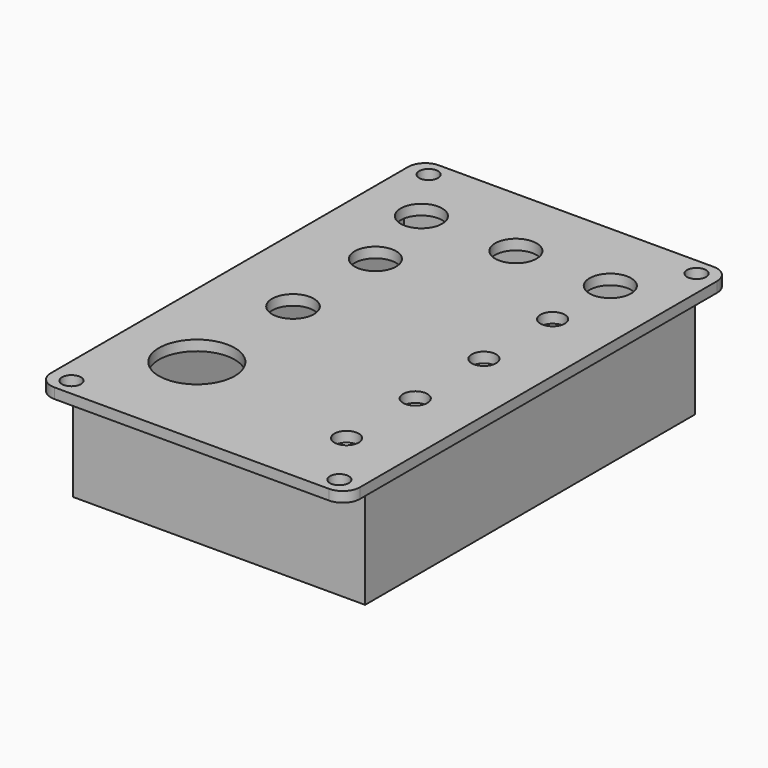
from build123d import *

# Parameters (mm, degrees)
SKETCH031_W   = 90
SKETCH031_H   = 140
SKETCH031_R   = 11.05
SKETCH031_R_2 = 2.75
SKETCH031_R_3 = 6.1
SKETCH031_R_4 = 6.05
SKETCH031_R_5 = 3.55
PAD014_DEPTH  = 3
SKETCH032_W   = 85
SKETCH032_H   = 120
SKETCH032_W_2 = 82
SKETCH032_H_2 = 117
PAD015_DEPTH  = 30
FILLET014_R   = 5


with BuildPart() as part:
    # Sketch031 → Pad014 (new body)
    with BuildSketch(Plane.XY):
        Rectangle(SKETCH031_W, SKETCH031_H)
        with Locations((-22.5, -40)):
            Circle(SKETCH031_R, mode=Mode.SUBTRACT)
        with Locations((-39, 65)):
            Circle(SKETCH031_R_2, mode=Mode.SUBTRACT)
        with Locations((39, 65)):
            Circle(SKETCH031_R_2, mode=Mode.SUBTRACT)
        with Locations((39, -65)):
            Circle(SKETCH031_R_2, mode=Mode.SUBTRACT)
        with Locations((-39, -65)):
            Circle(SKETCH031_R_2, mode=Mode.SUBTRACT)
        with Locations((-22.5, -5)):
            Circle(SKETCH031_R_3, mode=Mode.SUBTRACT)
        with Locations((-27.5, 48)):
            Circle(SKETCH031_R_4, mode=Mode.SUBTRACT)
        with Locations((0, 48)):
            Circle(SKETCH031_R_4, mode=Mode.SUBTRACT)
        with Locations((27.5, 48)):
            Circle(SKETCH031_R_4, mode=Mode.SUBTRACT)
        with Locations((27.5, -48)):
            Circle(SKETCH031_R_5, mode=Mode.SUBTRACT)
        with Locations((27.5, -23)):
            Circle(SKETCH031_R_5, mode=Mode.SUBTRACT)
        with Locations((27.5, 2)):
            Circle(SKETCH031_R_5, mode=Mode.SUBTRACT)
        with Locations((27.5, 27)):
            Circle(SKETCH031_R_5, mode=Mode.SUBTRACT)
        with Locations((-22.5, 25)):
            Circle(SKETCH031_R_4, mode=Mode.SUBTRACT)
    extrude(amount=PAD014_DEPTH)

    # Sketch032 (on Face19 of Pad014) → Pad015 (join)
    with BuildSketch(Plane(origin=(0, 0, 0), x_dir=(1, 0, 0), z_dir=(0, 0, -1))):
        Rectangle(SKETCH032_W, SKETCH032_H)
        Rectangle(SKETCH032_W_2, SKETCH032_H_2, mode=Mode.SUBTRACT)
    extrude(amount=PAD015_DEPTH)

    # Fillet014
    fillet014_edges = [part.edges().sort_by_distance(p)[0] for p in [
        (45, 70, 1.5),
        (-45, 70, 1.5),
        (45, -70, 1.5),
        (-45, -70, 1.5),
    ]]
    fillet(fillet014_edges, radius=FILLET014_R)


solid = part.part
